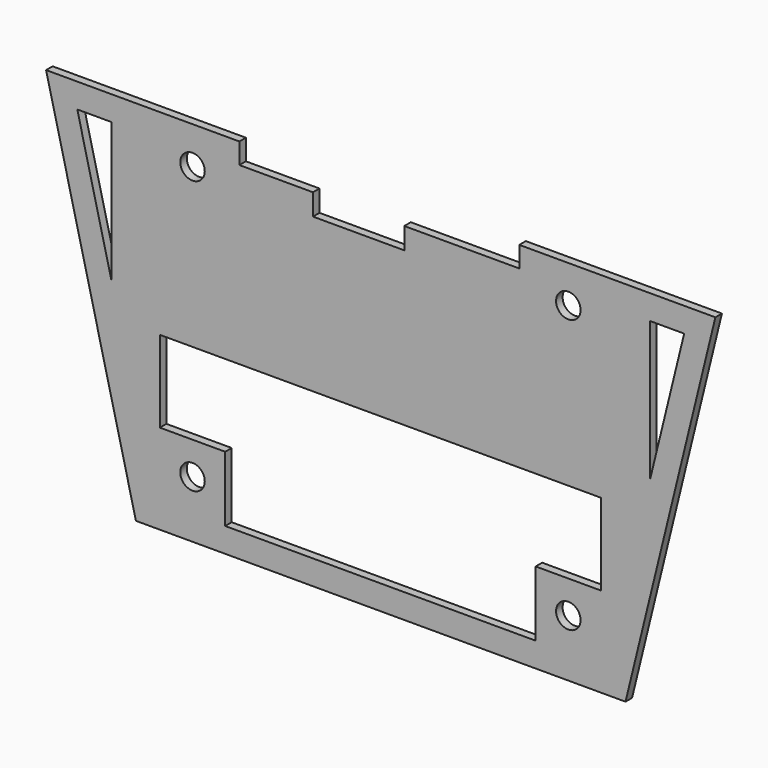
from build123d import *

# Parameters (mm, degrees)
F0_W      = 540
F0_H      = 390
F1_DEPTH  = 10
F2_W      = 80
F2_H      = 80
F2_R      = 15
F3_DEPTH  = 10
F5_W      = 380
F5_H      = 80
F6_DEPTH  = 10
F7_DEPTH  = 25
F8_W      = 111.767
F8_H      = 26.2346411405
F9_DEPTH  = 25
F10_DEPTH = 130


with BuildPart() as f1:
    # F0 (on Front) → F1 (new body)
    with BuildSketch(Plane.XZ):
        Polygon((-575.5810141563, 243.9473703504), (-465.5810141563, -206.0526296496), (133.660423523, -206.0526296496), (243.660423523, 243.9473703504), (133.660423523, 243.9473703504), (-465.5810141563, 243.9473703504), align=None)
        with Locations((-166.339576477, 18.9473703504)):
            Rectangle(F0_W, F0_H, mode=Mode.SUBTRACT)
        Polygon((-495.5810141563, 43.0153865893), (-537.3643879646, 213.9473703504), (-495.5810141563, 213.9473703504), align=None, mode=Mode.SUBTRACT)
        Polygon((163.660423523, 213.9473703504), (205.4437973313, 213.9473703504), (163.660423523, 43.0153865893), align=None, mode=Mode.SUBTRACT)
    extrude(amount=F1_DEPTH)

    # F2 (on face) → F3 (join)
    with BuildSketch(Plane.XZ.offset(10)):
        with Locations((-396.339576477, 173.9473703504)):
            Rectangle(F2_W, F2_H)
        with Locations((-396.339576477, 198.0975481868)):
            Circle(F2_R, mode=Mode.SUBTRACT)
        with Locations((63.660423523, 173.9473703504)):
            Rectangle(F2_W, F2_H)
        with Locations((63.660423523, 198.0975481868)):
            Circle(F2_R, mode=Mode.SUBTRACT)
        with Locations((63.660423523, -136.0526296496)):
            Rectangle(F2_W, F2_H)
        with Locations((63.660423523, -136.0526296496)):
            Circle(F2_R, mode=Mode.SUBTRACT)
        with Locations((-396.339576477, -136.0526296496)):
            Rectangle(F2_W, F2_H)
        with Locations((-396.339576477, -136.0526296496)):
            Circle(F2_R, mode=Mode.SUBTRACT)
    extrude(amount=-F3_DEPTH)

    # F5 (on face) → F6 (join)
    with BuildSketch(Plane.XZ.offset(10)):
        with Locations((-166.339576477, 173.9473703504)):
            Rectangle(F5_W, F5_H)
    extrude(amount=-F6_DEPTH)

    # F4 (on face) → F7 (cut)
    with BuildSketch(Plane.XZ.offset(10)):
        Polygon((3.5932296524, 243.9473703504), (-339.0040903476, 243.9473703504), (-339.0040903476, 218.5033703504), (-286.9719266891, 218.5033703504), (3.5932296524, 218.5033703504), align=None)
    extrude(amount=-F7_DEPTH, mode=Mode.SUBTRACT)

    # F8 (on face) → F9 (cut)
    with BuildSketch(Plane.XZ.offset(10)):
        with Locations((-193.0365383425, 205.3860497801)):
            Rectangle(F8_W, F8_H)
    extrude(amount=-F9_DEPTH, mode=Mode.SUBTRACT)

    # F10 (add): a face of the model
    f10_faces = [f1.faces().sort_by_distance(p)[0] for p in [
        (-166.339576477, -5, 133.9473703504),
    ]]
    extrude(f10_faces, amount=F10_DEPTH)


solid = f1.part
